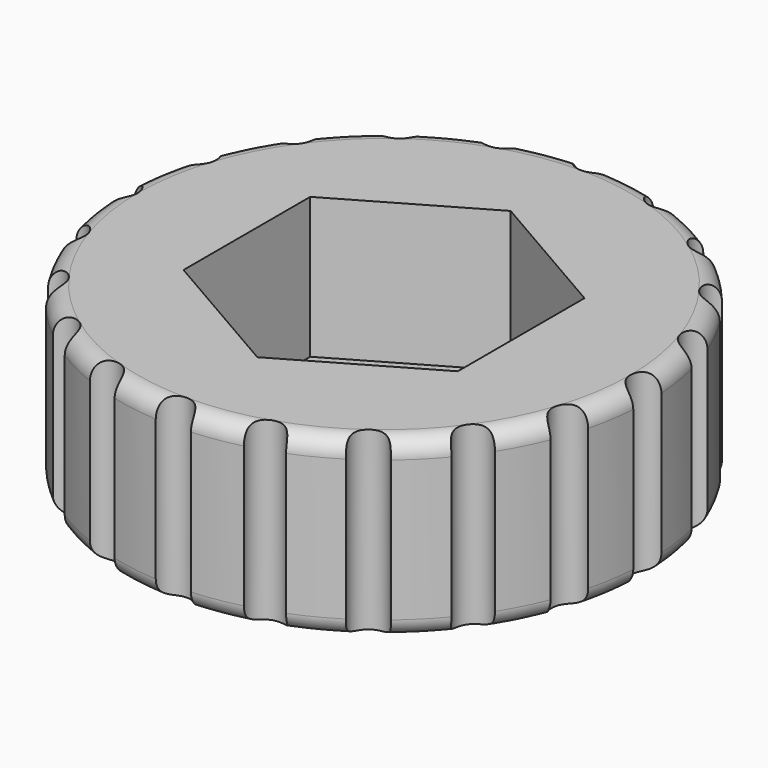
from build123d import *

# Parameters (mm, degrees)
SKETCH017_R           = 7.5
PAD010_DEPTH          = 5
FILLET004_R           = 0.5
POCKET003_DEPTH       = 4
SKETCH019_R           = 0.5
POCKET004_DEPTH       = 48.58999
POLARPATTERN002_COUNT = 20


with BuildPart() as part:
    # Sketch017 → Pad010 (new body)
    with BuildSketch(Plane.XY):
        Circle(SKETCH017_R)
    extrude(amount=PAD010_DEPTH)

    # Fillet004
    fillet004_edges = [part.edges().sort_by_distance(p)[0] for p in [
        (-7.5, 0, 0),
        (-7.5, 0, 5),
    ]]
    fillet(fillet004_edges, radius=FILLET004_R)

    # Sketch018 (on Face3 of Pad010) → Pocket003 (cut)
    with BuildSketch(Plane.XY.offset(5)):
        Polygon((3.897114, -2.25), (3.897114, 2.25), (0, 4.5), (-3.897114, 2.25), (-3.897114, -2.25), (0, -4.5), align=None)
    extrude(amount=-POCKET003_DEPTH, mode=Mode.SUBTRACT)

    # Sketch019 → Pocket004 (cut, through all)
    with BuildSketch(Plane.XY):
        with Locations((7.5, 0)):
            Circle(SKETCH019_R)
    pocket004 = extrude(amount=POCKET004_DEPTH, mode=Mode.SUBTRACT)

    # PolarPattern002: Pocket004 ×20 about axis
    polarpattern002_axis = Axis((0, 0, 0), (0, 0, 1))
    for i in range(1, POLARPATTERN002_COUNT):
        add(pocket004.rotate(polarpattern002_axis, i * 360 / POLARPATTERN002_COUNT), mode=Mode.SUBTRACT)


solid = part.part
